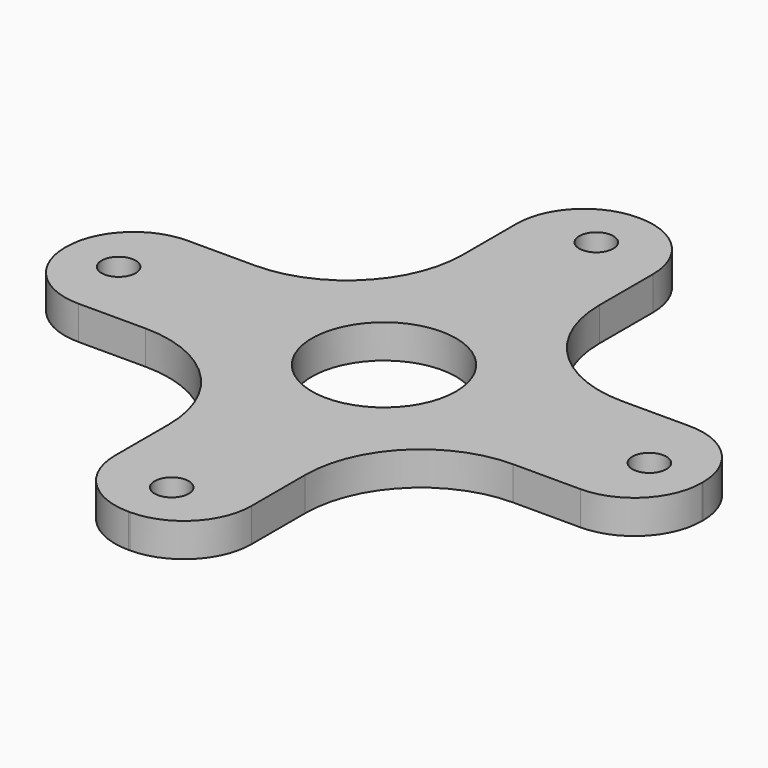
from build123d import *

# Parameters (mm, degrees)
F0_W     = 84
F0_H     = 18
F1_DEPTH = 4.445
F2_W     = 18
F2_H     = 84
F3_DEPTH = 4.445
F4_R     = 8.89
F6_D     = 4.4958
F7_R     = 9.5
F8_DEPTH = 4.446
F9_R     = 15.24


with BuildPart() as f1:
    # F0 (on Top) → F1 (new body)
    with BuildSketch(Plane.XY):
        Rectangle(F0_W, F0_H)
    extrude(amount=F1_DEPTH)

    # F2 (on Top) → F3 (join, through all)
    with BuildSketch(Plane.XY):
        Rectangle(F2_W, F2_H)
    extrude(amount=F3_DEPTH)

    # F4
    f4_edges = [f1.edges().sort_by_distance(p)[0] for p in [
        (9, -42, 2.2225),
        (-9, -42, 2.2225),
        (42, -9, 2.2225),
        (42, 9, 2.2225),
        (9, 42, 2.2225),
        (-42, -9, 2.2225),
        (-42, 9, 2.2225),
        (-9, 42, 2.2225),
    ]]
    fillet(f4_edges, radius=F4_R)

    # F6 (through all)
    with Locations(Plane.XY.offset(4.445)):
        with Locations((35, 0), (0, -35), (-35, 0), (0, 35)):
            Hole(F6_D / 2)

    # F7 (on Top) → F8 (cut, through all)
    with BuildSketch(Plane.XY):
        Circle(F7_R)
    extrude(amount=F8_DEPTH, mode=Mode.SUBTRACT)

    # F9
    f9_edges = [f1.edges().sort_by_distance(p)[0] for p in [
        (9, 9, 2.2225),
        (9, -9, 2.2225),
        (-9, -9, 2.2225),
        (-9, 9, 2.2225),
    ]]
    fillet(f9_edges, radius=F9_R)


solid = f1.part
